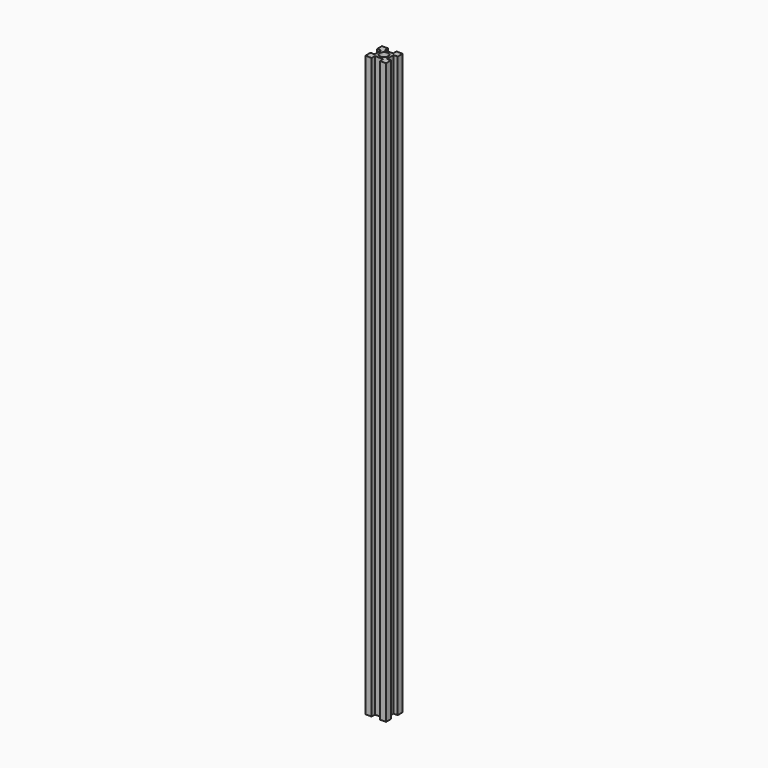
from build123d import *

# Parameters (mm, degrees)
F1_DEPTH = 71.12


with BuildPart() as f1:
    # F0 (on Top) → F1 (new body)
    with BuildSketch(Plane.XY):
        Polygon((0, 0.773533), (0, 0), (0.769862, 0), (0.769862, 0.507953), (1.781597, 0.507953), (1.781597, 0), (2.54, 0), (2.54, 0.773533), (2.03453, 0.773533), (2.03453, 1.785268), (2.54, 1.785268), (2.54, 2.54), (1.781597, 2.54), (1.781597, 2.038202), (0.757215, 2.038202), (0.757215, 2.54), (0, 2.54), (0, 1.785268), (0.516928, 1.785268), (0.516928, 1.27), (0.516928, 0.773533), align=None)
        with BuildLine():
            ThreePointArc((1.780828, 1.27), (1.263083, 0.752255), (0.745338, 1.27))
            ThreePointArc((0.745338, 1.27), (1.263083, 1.787745), (1.780828, 1.27))
        make_face(mode=Mode.SUBTRACT)
    extrude(amount=F1_DEPTH)


solid = f1.part
